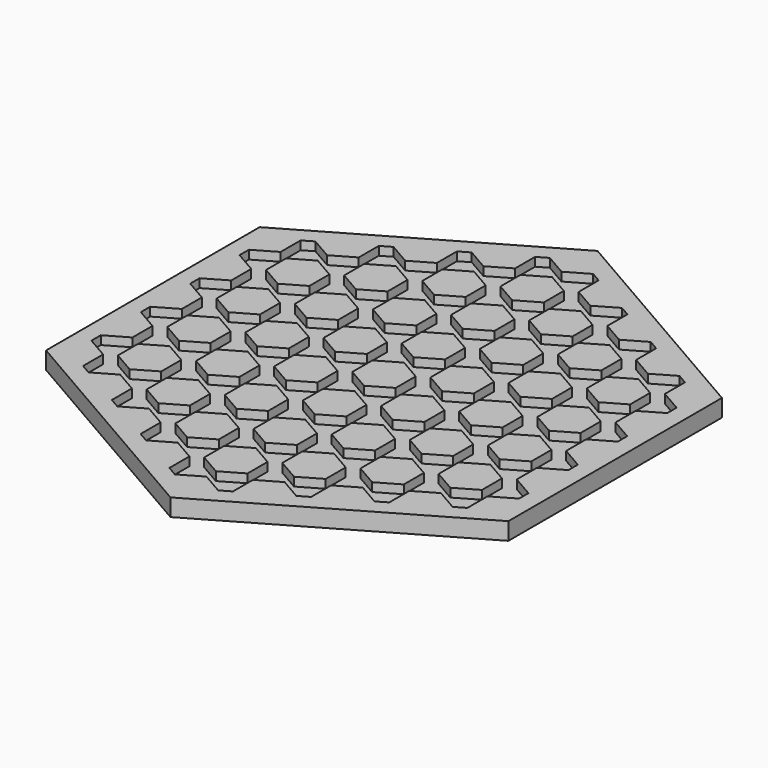
from build123d import *

# Parameters (mm, degrees)
F3_DEPTH = 3
F4_DEPTH = 1.5
F6_DEPTH = 1.5


with BuildPart() as f3:
    # F0 (on Top) → F3 (new body)
    with BuildSketch(Plane.XY):
        Polygon((40, -23.0940107676), (40, 23.0940107676), (0, 46.1880215352), (-40, 23.0940107676), (-40, -23.0940107676), (0, -46.1880215352), align=None)
    extrude(amount=F3_DEPTH)

    # F1 (on face) → F4 (cut)
    with BuildSketch(Plane.XY.offset(3)):
        Polygon((37, -21.36195996), (37, 21.36195996), (0, 42.72391992), (-37, 21.36195996), (-37, -21.36195996), (0, -42.72391992), align=None)
    extrude(amount=-F4_DEPTH, mode=Mode.SUBTRACT)

    # F5 (on face) → F6 (join)
    with BuildSketch(Plane.XY.offset(1.5)):
        Polygon((3.75, -2.1650635095), (3.75, 2.1650635095), (0, 4.3301270189), (-3.75, 2.1650635095), (-3.75, -2.1650635095), (0, -4.3301270189), align=None)
        Polygon((3.75, -12.8460434895), (3.75, -8.5159164705), (0, -6.3508529611), (-3.75, -8.5159164705), (-3.75, -12.8460434895), (0, -15.0111069989), align=None)
        Polygon((3.75, -23.5270234695), (3.75, -19.1968964506), (0, -17.0318329411), (-3.75, -19.1968964506), (-3.75, -23.5270234695), (0, -25.6920869789), align=None)
        Polygon((3.75, -34.2080034495), (3.75, -29.8778764306), (0, -27.7128129211), (-3.75, -29.8778764306), (-3.75, -34.2080034495), (0, -36.3730669589), align=None)
        Polygon((-13, -24.5373864406), (-13, -28.8675134595), (-9.25, -31.0325769689), (-5.5, -28.8675134595), (-5.5, -24.5373864406), (-9.25, -22.3723229311), align=None)
        Polygon((-13, -13.8564064606), (-13, -18.1865334795), (-9.25, -20.3515969889), (-5.5, -18.1865334795), (-5.5, -13.8564064606), (-9.25, -11.6913429511), align=None)
        Polygon((-5.5, -7.5055534995), (-5.5, -3.1754264805), (-9.25, -1.0103629711), (-13, -3.1754264805), (-13, -7.5055534995), (-9.25, -9.6706170089), align=None)
        Polygon((-13, 7.5055534995), (-13, 3.1754264805), (-9.25, 1.0103629711), (-5.5, 3.1754264805), (-5.5, 7.5055534995), (-9.25, 9.6706170089), align=None)
        Polygon((-13, 18.1865334795), (-13, 13.8564064606), (-9.25, 11.6913429511), (-5.5, 13.8564064606), (-5.5, 18.1865334795), (-9.25, 20.3515969889), align=None)
        Polygon((3.75, 8.5159164705), (3.75, 12.8460434895), (0, 15.0111069989), (-3.75, 12.8460434895), (-3.75, 8.5159164705), (0, 6.3508529611), align=None)
        Polygon((3.75, 19.1968964506), (3.75, 23.5270234695), (0, 25.6920869789), (-3.75, 23.5270234695), (-3.75, 19.1968964506), (0, 17.0318329411), align=None)
        Polygon((-13, 28.8675134595), (-13, 24.5373864406), (-9.25, 22.3723229311), (-5.5, 24.5373864406), (-5.5, 28.8675134595), (-9.25, 31.0325769689), align=None)
        Polygon((3.75, 29.8778764306), (3.75, 34.2080034495), (0, 36.3730669589), (-3.75, 34.2080034495), (-3.75, 29.8778764306), (0, 27.7128129211), align=None)
        Polygon((14.75, 19.1968964506), (18.5, 17.0318329411), (22.25, 19.1968964506), (22.25, 23.5270234695), (18.5, 25.6920869789), (14.75, 23.5270234695), align=None)
        Polygon((18.5, 15.0111069989), (14.75, 12.8460434895), (14.75, 8.5159164705), (18.5, 6.3508529611), (22.25, 8.5159164705), (22.25, 12.8460434895), align=None)
        Polygon((14.75, -2.1650635095), (18.5, -4.3301270189), (22.25, -2.1650635095), (22.25, 2.1650635095), (18.5, 4.3301270189), (14.75, 2.1650635095), align=None)
        Polygon((18.5, -6.3508529611), (14.75, -8.5159164705), (14.75, -12.8460434895), (18.5, -15.0111069989), (22.25, -12.8460434895), (22.25, -8.5159164705), align=None)
        Polygon((18.5, -17.0318329411), (14.75, -19.1968964506), (14.75, -23.5270234695), (18.5, -25.6920869789), (22.25, -23.5270234695), (22.25, -19.1968964506), align=None)
        Polygon((33.25, -19.1968964506), (33.25, -23.5270234695), (37, -21.36195996), (37, -17.0318329411), align=None)
        Polygon((33.25, -12.8460434895), (37, -15.0111069989), (37, -6.3508529611), (33.25, -8.5159164705), align=None)
        Polygon((33.25, -2.1650635095), (37, -4.3301270189), (37, 4.3301270189), (33.25, 2.1650635095), align=None)
        Polygon((33.25, 8.5159164705), (37, 6.3508529611), (37, 15.0111069989), (33.25, 12.8460434895), align=None)
        Polygon((33.25, 19.1968964506), (37, 17.0318329411), (37, 21.36195996), (33.25, 23.5270234695), align=None)
        Polygon((-14.75, 19.1968964506), (-14.75, 23.5270234695), (-18.5, 25.6920869789), (-22.25, 23.5270234695), (-22.25, 19.1968964506), (-18.5, 17.0318329411), align=None)
        Polygon((-18.5, 6.3508529611), (-14.75, 8.5159164705), (-14.75, 12.8460434895), (-18.5, 15.0111069989), (-22.25, 12.8460434895), (-22.25, 8.5159164705), align=None)
        Polygon((-14.75, 2.1650635095), (-18.5, 4.3301270189), (-22.25, 2.1650635095), (-22.25, -2.1650635095), (-18.5, -4.3301270189), (-14.75, -2.1650635095), align=None)
        Polygon((-18.5, -6.3508529611), (-22.25, -8.5159164705), (-22.25, -12.8460434895), (-18.5, -15.0111069989), (-14.75, -12.8460434895), (-14.75, -8.5159164705), align=None)
        Polygon((-22.25, -23.5270234695), (-18.5, -25.6920869789), (-14.75, -23.5270234695), (-14.75, -19.1968964506), (-18.5, -17.0318329411), (-22.25, -19.1968964506), align=None)
        Polygon((-22.25, -29.8778764306), (-14.75, -34.2080034495), (-14.75, -29.8778764306), (-18.5, -27.7128129211), align=None)
        Polygon((-31.5, -24.5373864406), (-24, -28.8675134595), (-24, -24.5373864406), (-27.75, -22.3723229311), align=None)
        Polygon((-31.5, -18.1865334795), (-27.75, -20.3515969889), (-24, -18.1865334795), (-24, -13.8564064606), (-27.75, -11.6913429511), (-31.5, -13.8564064606), align=None)
        Polygon((-31.5, -7.5055534995), (-27.75, -9.6706170089), (-24, -7.5055534995), (-24, -3.1754264805), (-27.75, -1.0103629711), (-31.5, -3.1754264805), align=None)
        Polygon((-27.75, 9.6706170089), (-31.5, 7.5055534995), (-31.5, 3.1754264805), (-27.75, 1.0103629711), (-24, 3.1754264805), (-24, 7.5055534995), align=None)
        Polygon((-24, 13.8564064606), (-24, 18.1865334795), (-27.75, 20.3515969889), (-31.5, 18.1865334795), (-31.5, 13.8564064606), (-27.75, 11.6913429511), align=None)
        Polygon((-37, 21.36195996), (-37, 17.0318329411), (-33.25, 19.1968964506), (-33.25, 23.5270234695), align=None)
        Polygon((-37, 15.0111069989), (-37, 6.3508529611), (-33.25, 8.5159164705), (-33.25, 12.8460434895), align=None)
        Polygon((-37, 4.3301270189), (-37, -4.3301270189), (-33.25, -2.1650635095), (-33.25, 2.1650635095), align=None)
        Polygon((-37, -6.3508529611), (-37, -15.0111069989), (-33.25, -12.8460434895), (-33.25, -8.5159164705), align=None)
        Polygon((-37, -21.36195996), (-33.25, -23.5270234695), (-33.25, -19.1968964506), (-37, -17.0318329411), align=None)
        Polygon((-24, 28.8675134595), (-31.5, 24.5373864406), (-27.75, 22.3723229311), (-24, 24.5373864406), align=None)
        Polygon((-14.75, 34.2080034495), (-22.25, 29.8778764306), (-18.5, 27.7128129211), (-14.75, 29.8778764306), align=None)
        Polygon((9.25, 33.0533029111), (13, 35.2183664206), (5.5, 39.5484934395), (5.5, 35.2183664206), align=None)
        Polygon((9.25, 31.0325769689), (5.5, 28.8675134595), (5.5, 24.5373864406), (9.25, 22.3723229311), (13, 24.5373864406), (13, 28.8675134595), align=None)
        Polygon((5.5, 13.8564064606), (9.25, 11.6913429511), (13, 13.8564064606), (13, 18.1865334795), (9.25, 20.3515969889), (5.5, 18.1865334795), align=None)
        Polygon((5.5, 7.5055534995), (5.5, 3.1754264805), (9.25, 1.0103629711), (13, 3.1754264805), (13, 7.5055534995), (9.25, 9.6706170089), align=None)
        Polygon((5.5, -7.5055534995), (9.25, -9.6706170089), (13, -7.5055534995), (13, -3.1754264805), (9.25, -1.0103629711), (5.5, -3.1754264805), align=None)
        Polygon((13, -18.1865334795), (13, -13.8564064606), (9.25, -11.6913429511), (5.5, -13.8564064606), (5.5, -18.1865334795), (9.25, -20.3515969889), align=None)
        Polygon((9.25, -31.0325769689), (13, -28.8675134595), (13, -24.5373864406), (9.25, -22.3723229311), (5.5, -24.5373864406), (5.5, -28.8675134595), align=None)
        Polygon((5.5, -35.2183664206), (5.5, -39.5484934395), (13, -35.2183664206), (9.25, -33.0533029111), align=None)
        Polygon((14.75, -29.8778764306), (14.75, -34.2080034495), (22.25, -29.8778764306), (18.5, -27.7128129211), align=None)
        Polygon((24, -24.5373864406), (24, -28.8675134595), (31.5, -24.5373864406), (27.75, -22.3723229311), align=None)
        Polygon((31.5, -18.1865334795), (31.5, -13.8564064606), (27.75, -11.6913429511), (24, -13.8564064606), (24, -18.1865334795), (27.75, -20.3515969889), align=None)
        Polygon((24, -7.5055534995), (27.75, -9.6706170089), (31.5, -7.5055534995), (31.5, -3.1754264805), (27.75, -1.0103629711), (24, -3.1754264805), align=None)
        Polygon((24, 7.5055534995), (24, 3.1754264805), (27.75, 1.0103629711), (31.5, 3.1754264805), (31.5, 7.5055534995), (27.75, 9.6706170089), align=None)
        Polygon((24, 13.8564064606), (27.75, 11.6913429511), (31.5, 13.8564064606), (31.5, 18.1865334795), (27.75, 20.3515969889), (24, 18.1865334795), align=None)
        Polygon((27.75, 22.3723229311), (31.5, 24.5373864406), (24, 28.8675134595), (24, 24.5373864406), align=None)
        Polygon((-5.5, 39.5484934395), (-13, 35.2183664206), (-9.25, 33.0533029111), (-5.5, 35.2183664206), align=None)
        Polygon((0, 38.3937929011), (3.75, 40.5588564106), (0, 42.72391992), (-3.75, 40.5588564106), align=None)
        Polygon((18.5, 27.7128129211), (22.25, 29.8778764306), (14.75, 34.2080034495), (14.75, 29.8778764306), align=None)
        Polygon((-13, -35.2183664206), (-5.5, -39.5484934395), (-5.5, -35.2183664206), (-9.25, -33.0533029111), align=None)
        Polygon((0, -42.72391992), (3.75, -40.5588564106), (0, -38.3937929011), (-3.75, -40.5588564106), align=None)
    extrude(amount=F6_DEPTH)


solid = f3.part
